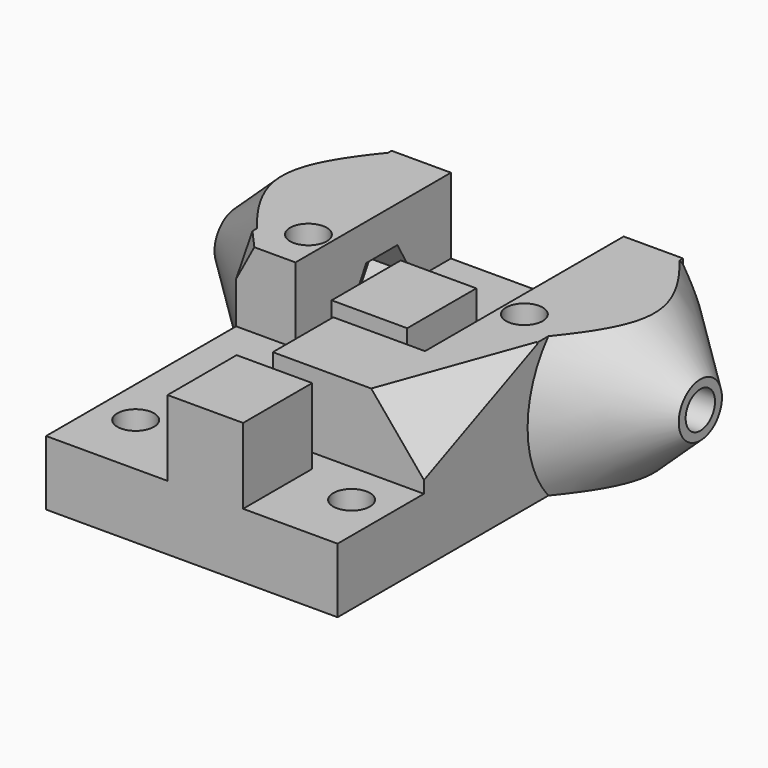
from build123d import *

# Parameters (mm, degrees)
SKETCH019_R          = 1.7
PAD002_DEPTH         = 13
SKETCH020_W          = 7
SKETCH020_H          = 8
POCKET017_DEPTH      = 7
POCKET019_DEPTH      = 8
POCKET020_DEPTH      = 8
SKETCH024_R          = 2.5
SKETCH025_R          = 10
SKETCH027_R          = 10
SKETCH026_R          = 2.5
SKETCH021_R          = 1.7
POCKET021_DEPTH      = 21.5010001
POCKET021_DEPTH_BACK = 21.5010001
SKETCH028_W          = 57.890867
SKETCH028_H          = 28.005435
SKETCH028_W_2        = 40
SKETCH028_H_2        = 13
POCKET022_DEPTH      = 21.5010001
POCKET022_DEPTH_BACK = 21.5010001
SKETCH029_W          = 10.751613
SKETCH029_H          = 15.361299
POCKET023_DEPTH      = 5
SKETCH030_W          = 5.428132
SKETCH030_H          = 4.529939
POCKET024_DEPTH      = 5


with BuildPart() as part:
    # Sketch019 → Pad002 (new body)
    with BuildSketch(Plane.XY):
        Polygon((-13.5, -16), (13.5, -16), (13.5, 6), (13.5, 24), (-13.5, 24), (-13.5, 6), align=None)
        with Locations((10, 10)):
            Circle(SKETCH019_R, mode=Mode.SUBTRACT)
        with Locations((-10, 10)):
            Circle(SKETCH019_R, mode=Mode.SUBTRACT)
        with Locations((-10, -10)):
            Circle(SKETCH019_R, mode=Mode.SUBTRACT)
        with Locations((10, -10)):
            Circle(SKETCH019_R, mode=Mode.SUBTRACT)
    extrude(amount=PAD002_DEPTH)

    # Sketch020 → Pocket017 (cut)
    with BuildSketch(Plane.XY.offset(13)):
        Polygon((-2.25, -8), (4.75, -8), (4.75, -16), (13.5, -16), (13.5, -6), (-0.5, -6), (-0.5, 1), (8, 1), (8, 24), (-8, 24), (-8, 6), (-13.5, 6), (-13.5, -16), (-2.25, -16), align=None)
        with Locations((1.25, 7)):
            Rectangle(SKETCH020_W, SKETCH020_H, mode=Mode.SUBTRACT)
    extrude(amount=-POCKET017_DEPTH, mode=Mode.SUBTRACT)

    # Sketch022 → Pocket019 (cut)
    with BuildSketch(Plane.YZ.offset(4)):
        Polygon((19.6, 6.5), (17.8, 9.6176914536), (14.2, 9.6176914536), (12.4, 6.5), (14.2, 3.3823085464), (17.8, 3.3823085464), align=None)
    extrude(amount=POCKET019_DEPTH, mode=Mode.SUBTRACT)

    # Sketch023 → Pocket020 (cut)
    with BuildSketch(Plane.YZ.offset(-4)):
        Polygon((19.6, 6.5), (17.8, 9.6176914536), (14.2, 9.6176914536), (12.4, 6.5), (14.2, 3.3823085464), (17.8, 3.3823085464), align=None)
    extrude(amount=-POCKET020_DEPTH, mode=Mode.SUBTRACT)

    # Sketch024 → AdditiveLoft section 0
    with BuildSketch(Plane.YZ.offset(21.5)):
        with Locations((16, 6.5)):
            Circle(SKETCH024_R)
    # Sketch025 → AdditiveLoft section 1
    with BuildSketch(Plane.YZ.offset(13.5)):
        with Locations((16, 6.5)):
            Circle(SKETCH025_R)
    loft()

    # Sketch027 → AdditiveLoft001 section 0
    with BuildSketch(Plane.YZ.offset(-13.5)):
        with Locations((16, 6.5)):
            Circle(SKETCH027_R)
    # Sketch026 → AdditiveLoft001 section 1
    with BuildSketch(Plane.YZ.offset(-21.5)):
        with Locations((16, 6.5)):
            Circle(SKETCH026_R)
    loft()

    # Sketch021 → Pocket021 (cut, two sides)
    with BuildSketch(Plane.YZ) as pocket021_sk:
        with Locations((16, 6.5)):
            Circle(SKETCH021_R)
    extrude(amount=-POCKET021_DEPTH, mode=Mode.SUBTRACT)
    extrude(pocket021_sk.sketch, amount=POCKET021_DEPTH_BACK, mode=Mode.SUBTRACT)

    # Sketch028 → Pocket022 (cut, two sides)
    with BuildSketch(Plane.YZ) as pocket022_sk:
        with Locations((4.9093215, 6.8553455)):
            Rectangle(SKETCH028_W, SKETCH028_H)
        with Locations((4, 6.5)):
            Rectangle(SKETCH028_W_2, SKETCH028_H_2, mode=Mode.SUBTRACT)
    extrude(amount=-POCKET022_DEPTH, mode=Mode.SUBTRACT)
    extrude(pocket022_sk.sketch, amount=POCKET022_DEPTH_BACK, mode=Mode.SUBTRACT)

    # Sketch029 (on DatumPlane) → Pocket023 (cut)
    with BuildSketch(Plane(origin=(11.8478062442, -4.3122488143, 9.8505836052), x_dir=(0.5785325453, -0.210568626, -0.7880107536), z_dir=(0.7404878903, -0.2695155509, 0.6156614753))):
        with Locations((-0.9861515, 3.6505885)):
            Rectangle(SKETCH029_W, SKETCH029_H)
    extrude(amount=POCKET023_DEPTH, mode=Mode.SUBTRACT)

    # Sketch030 (on DatumPlane) → Pocket024 (cut)
    with BuildSketch(Plane(origin=(0, 0, 25), x_dir=(0.2777686245, 0.2484410627, 0.9279663947), z_dir=(-0.6924826787, -0.6177293717, 0.3726636058))):
        with Locations((-14.088813, 13.6448355)):
            Rectangle(SKETCH030_W, SKETCH030_H)
    extrude(amount=POCKET024_DEPTH, mode=Mode.SUBTRACT)


solid = part.part
